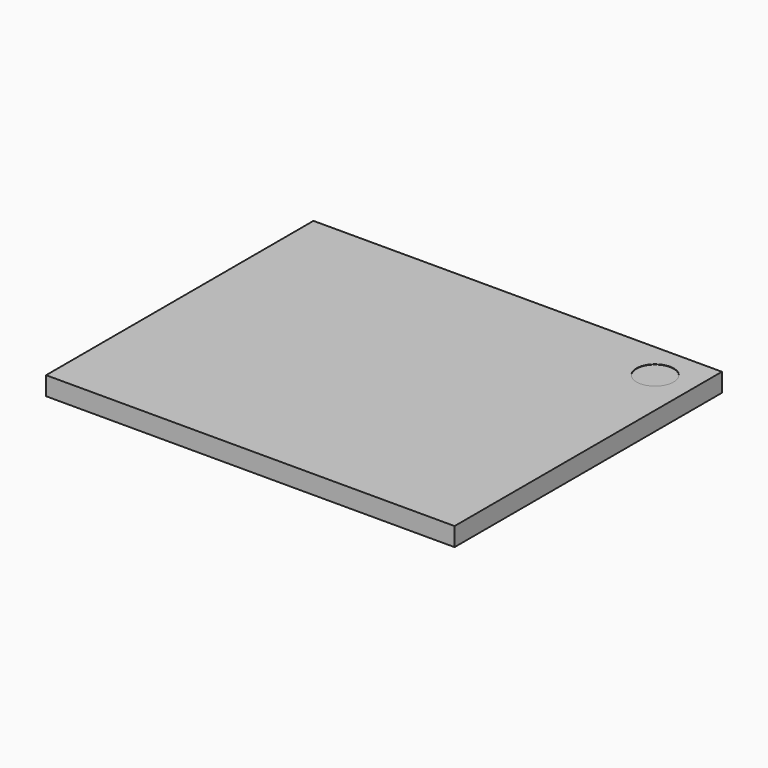
from build123d import *

# Parameters (mm, degrees)
CYLINDER023_R          = 0.5
CYLINDER023_DEPTH      = 0.01
BOX062_W               = 9
BOX062_H               = 11
BOX062_DEPTH           = 0.5
CUT013_PLACEMENT_ANGLE = 270


with BuildPart() as cylinder022:
    # Cylinder023 → Cylinder023 (new body)
    with BuildSketch(Plane(origin=(1, 10, 0.49), x_dir=(1, 0, 0), z_dir=(0, 0, 1))):
        Circle(CYLINDER023_R)
    extrude(amount=CYLINDER023_DEPTH)


with BuildPart() as obj1:
    # Box062 → Box062 (new body)
    with BuildSketch(Plane.XY):
        with Locations((4.5, 5.5)):
            Rectangle(BOX062_W, BOX062_H)
    extrude(amount=BOX062_DEPTH)

    # Cut013: cut Cylinder022
    add(cylinder022.part, mode=Mode.SUBTRACT)


with BuildPart() as obj1_1:
    # Cut013 placement: moved
    add(obj1.part.moved(Location((-4.76, 18.63, 18.3))).rotate(Axis((-4.76, 18.63, 18.3), (0, 0, 1)), CUT013_PLACEMENT_ANGLE))


solid = obj1_1.part
